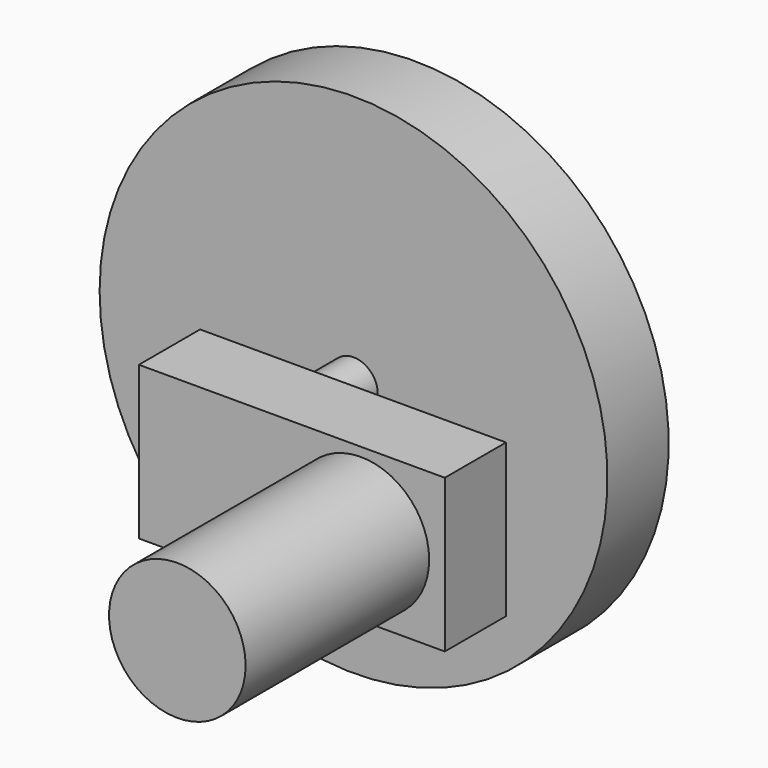
from build123d import *

# Parameters (mm, degrees)
F0_W     = 101.6
F0_H     = 50.8
F1_DEPTH = 25.4
F2_R     = 22.674477
F3_DEPTH = 76.2
F4_R     = 8.036326
F5_DEPTH = 50.8
F6_R     = 84.345052
F6_R_2   = 8.036326
F7_DEPTH = 12.7


with BuildPart() as f1:
    # F0 (on Front) → F1 (new body)
    with BuildSketch(Plane.XZ):
        with Locations((50.8, 25.4)):
            Rectangle(F0_W, F0_H)
    extrude(amount=F1_DEPTH)

    # F2 (on face) → F3 (join)
    with BuildSketch(Plane.XZ.offset(25.4)):
        with Locations((73.721826, 25.155274)):
            Circle(F2_R)
    extrude(amount=F3_DEPTH)

    # F4 (on face) → F5 (join)
    with BuildSketch(Plane(origin=(0, 0, 0), x_dir=(-1, 0, 0), z_dir=(0, 1, 0))):
        with Locations((-20.490019, 25.804443)):
            Circle(F4_R)
    extrude(amount=F5_DEPTH)

    # F6 (on face) → F7 (join, symmetric)
    with BuildSketch(Plane(origin=(0, 50.8, 0), x_dir=(-1, 0, 0), z_dir=(0, 1, 0))):
        with Locations((-20.490019, 25.804443)):
            Circle(F6_R)
        with Locations((-20.490019, 25.804443)):
            Circle(F6_R_2, mode=Mode.SUBTRACT)
    extrude(amount=F7_DEPTH, both=True)


solid = f1.part
